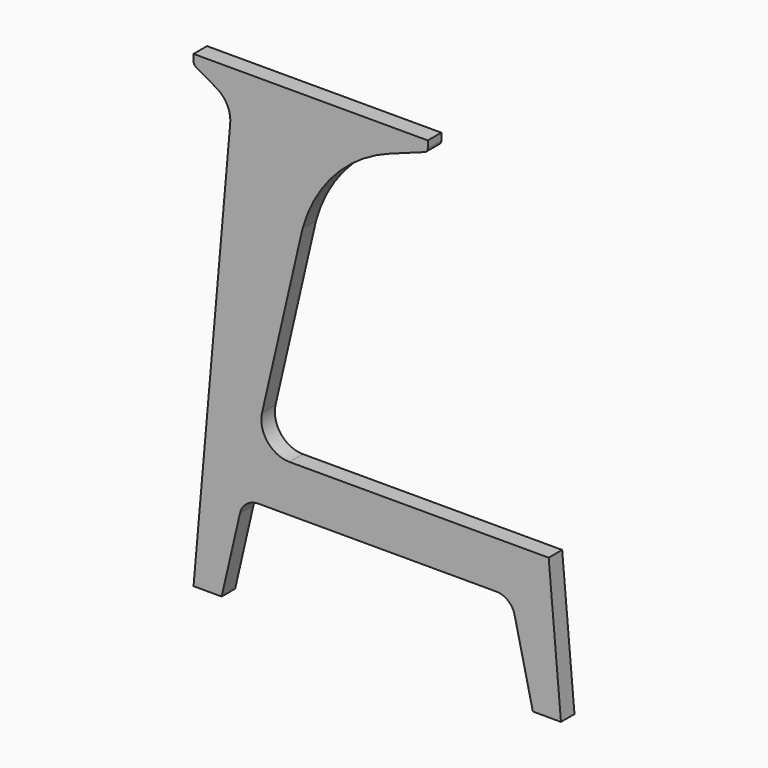
from build123d import *

# Parameters (mm, degrees)
F1_DEPTH = 18


with BuildPart() as f1:
    # F0 (on Front) → F1 (new body)
    with BuildSketch(Plane.XZ):
        with BuildLine():
            Line((0, 0), (30, 0))
            Line((30, 0), (49.508136, 84.499021))
            ThreePointArc((49.508136, 84.499021), (56.545245, 95.652163), (68.995537, 100))
            Line((68.995537, 100), (323.050103, 100))
            ThreePointArc((323.050103, 100), (335.500396, 95.652163), (342.537505, 84.499021))
            Line((342.537505, 84.499021), (362.045641, 0))
            Line((362.045641, 0), (392.045641, 0))
            Line((392.045641, 0), (378.922341, 150))
            Line((378.922341, 150), (102.345398, 150))
            ThreePointArc((102.345398, 150), (78.867153, 161.324561), (73.114296, 186.748532))
            Line((73.114296, 186.748532), (116.256697, 373.618801))
            ThreePointArc((116.256697, 373.618801), (150.659159, 435.301168), (209.474925, 474.40295))
            Line((209.474925, 474.40295), (247.06263, 488.083756))
            ThreePointArc((247.06263, 488.083756), (249.201973, 489.928609), (250, 492.638485))
            Line((250, 492.638485), (250, 500))
            Line((250, 500), (0, 500))
            Line((0, 500), (0, 492.886751))
            ThreePointArc((0, 492.886751), (0.669873, 490.386751), (2.5, 488.556624))
            Line((2.5, 488.556624), (24.256589, 475.995452))
            ThreePointArc((24.256589, 475.995452), (35.866914, 463.867148), (39.14243, 447.400018))
            Line((39.14243, 447.400018), (37.082799, 423.858334))
            Line((37.082799, 423.858334), (0, 0))
        make_face()
    extrude(amount=F1_DEPTH)


solid = f1.part
